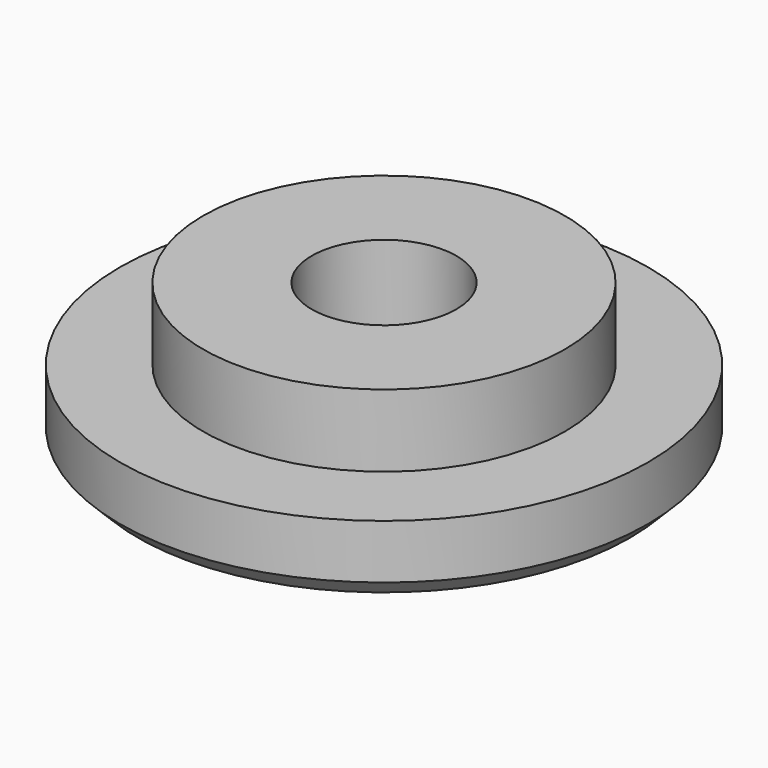
from build123d import *

# Parameters (mm, degrees)
F0_R     = 7.3
F1_DEPTH = 2
F2_R     = 5
F3_DEPTH = 2
F4_SIZE  = 0.5
F5_R     = 2
F6_DEPTH = 4.001


with BuildPart() as f1:
    # F0 (on Top) → F1 (new body)
    with BuildSketch(Plane.XY):
        Circle(F0_R)
    extrude(amount=F1_DEPTH)

    # F2 (on face) → F3 (join)
    with BuildSketch(Plane.XY.offset(2)):
        Circle(F2_R)
    extrude(amount=F3_DEPTH)

    # F4
    f4_edges = [f1.edges().sort_by_distance(p)[0] for p in [
        (-7.3, 0, 0),
    ]]
    chamfer(f4_edges, length=F4_SIZE)

    # F5 (on face) → F6 (cut, through all)
    with BuildSketch(Plane(origin=(0, 0, 0), x_dir=(1, 0, 0), z_dir=(0, 0, -1))):
        Circle(F5_R)
    extrude(amount=-F6_DEPTH, mode=Mode.SUBTRACT)


solid = f1.part
